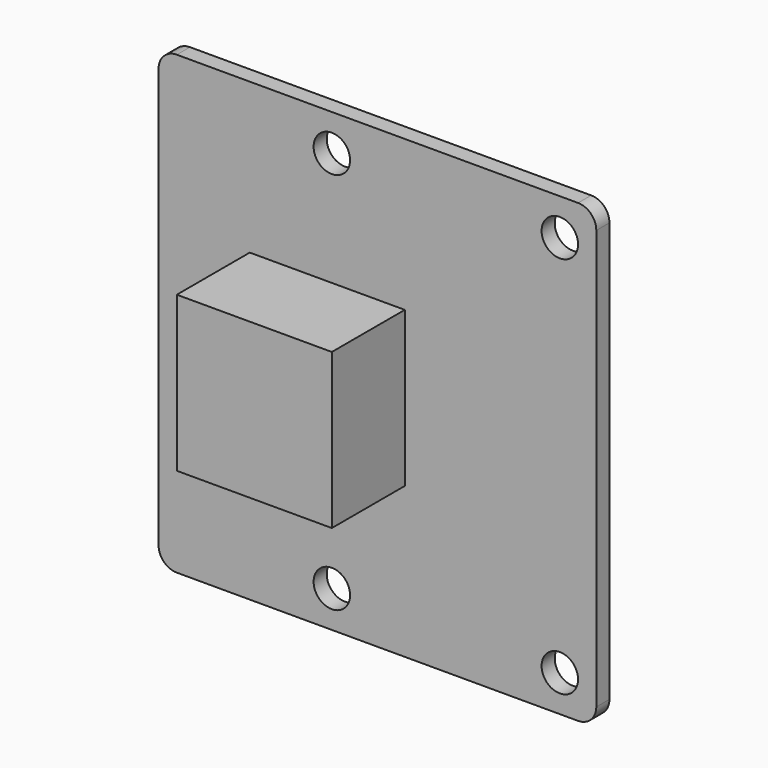
from build123d import *

# Parameters (mm, degrees)
F0_W     = 24
F0_H     = 25
F1_DEPTH = 0.9
F2_R     = 1
F3_W     = 8.5
F3_H     = 8.5
F4_DEPTH = 5
F5_R     = 1
F6_DEPTH = 0.901
F7_W     = 5.5
F7_H     = 20
F8_DEPTH = 2.5


with BuildPart() as f1:
    # F0 (on Front) → F1 (new body)
    with BuildSketch(Plane.XZ):
        Rectangle(F0_W, F0_H)
    extrude(amount=F1_DEPTH)

    # F2
    f2_edges = [f1.edges().sort_by_distance(p)[0] for p in [
        (12, -0.45, 12.5),
        (12, -0.45, -12.5),
        (-12, -0.45, -12.5),
        (-12, -0.45, 12.5),
    ]]
    fillet(f2_edges, radius=F2_R)

    # F3 (on face) → F4 (join)
    with BuildSketch(Plane.XZ.offset(0.9)):
        with Locations((-2.75, 0)):
            Rectangle(F3_W, F3_H)
    extrude(amount=F4_DEPTH)

    # F5 (on face) → F6 (cut, through all)
    with BuildSketch(Plane.XZ.offset(0.9)):
        with Locations((10, 10.5)):
            Circle(F5_R)
        with Locations((-2.5, 10.5)):
            Circle(F5_R)
        with Locations((-2.5, -10.5)):
            Circle(F5_R)
        with Locations((10, -10.5)):
            Circle(F5_R)
    extrude(amount=-F6_DEPTH, mode=Mode.SUBTRACT)

    # F7 (on face) → F8 (join)
    with BuildSketch(Plane(origin=(0, 0, 0), x_dir=(-1, 0, 0), z_dir=(0, 1, 0))):
        with Locations((9.25, 0)):
            Rectangle(F7_W, F7_H)
    extrude(amount=F8_DEPTH)


solid = f1.part
